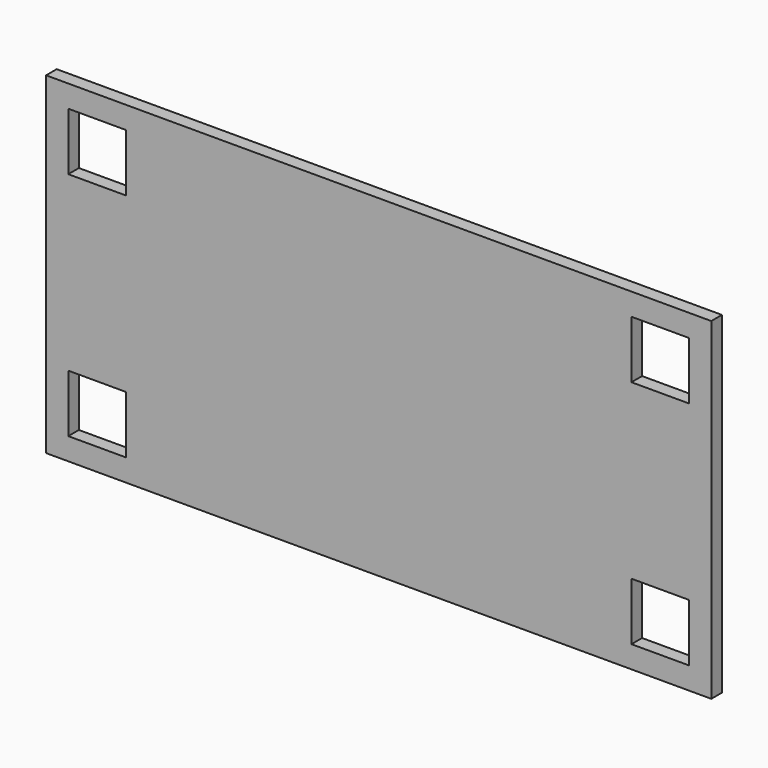
from build123d import *

# Parameters (mm, degrees)
F0_W     = 150
F0_H     = 75
F1_DEPTH = 3
F2_W     = 13
F2_H     = 13
F3_DEPTH = 4


with BuildPart() as f1:
    # F0 (on Front) → F1 (new body)
    with BuildSketch(Plane.XZ):
        with Locations((31.983163, 46.348685)):
            Rectangle(F0_W, F0_H)
    extrude(amount=F1_DEPTH)

    # F2 (on face) → F3 (cut)
    with BuildSketch(Plane.XZ.offset(3)):
        with Locations((-31.516837, 72.348685)):
            Rectangle(F2_W, F2_H)
        with Locations((-31.516837, 20.348685)):
            Rectangle(F2_W, F2_H)
        with Locations((95.483163, 20.348685)):
            Rectangle(F2_W, F2_H)
        with Locations((95.483163, 72.348685)):
            Rectangle(F2_W, F2_H)
    extrude(amount=-F3_DEPTH, mode=Mode.SUBTRACT)


solid = f1.part
